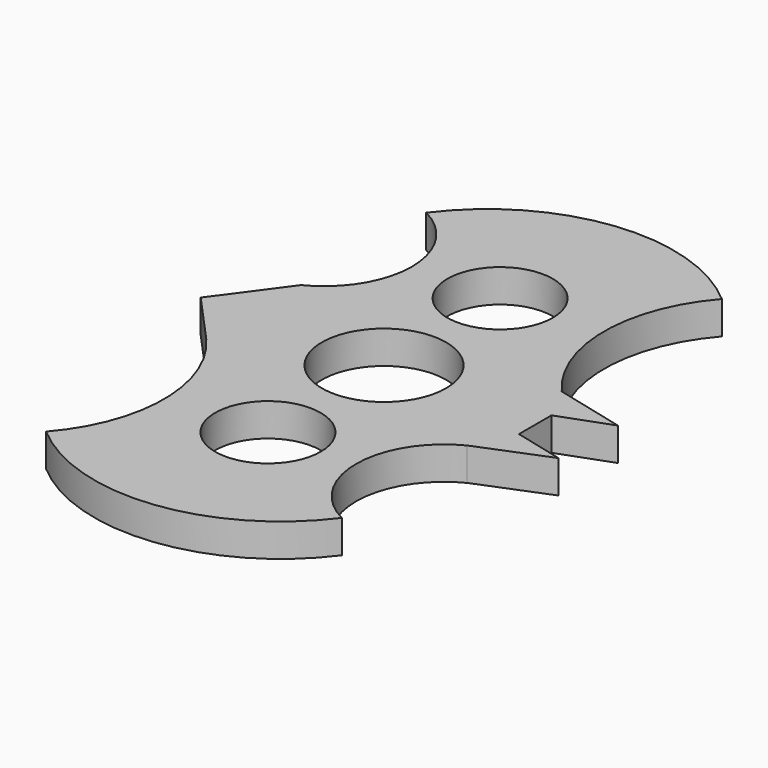
from build123d import *

# Parameters (mm, degrees)
F0_R     = 11.2
F0_R_2   = 13.2
F1_DEPTH = 7


with BuildPart() as f1:
    # F0 (on Top) → F1 (new body)
    with BuildSketch(Plane.XY):
        with BuildLine():
            ThreePointArc((28.884582, 11.065237), (20.885319, 32.324288), (28.884582, 53.583339))
            ThreePointArc((28.884582, 53.583339), (-1.340183, 62.944188), (-28.762719, 47.15918))
            ThreePointArc((-28.762719, 47.15918), (-18.50582, 30.514764), (-28.762719, 13.870347))
            Line((-28.762719, 13.870347), (-38.919577, 0))
            Line((-38.919577, 0), (-28.884582, -11.065237))
            ThreePointArc((-28.884582, -11.065237), (-20.885319, -32.324288), (-28.884582, -53.583339))
            ThreePointArc((-28.884582, -53.583339), (1.340183, -62.944188), (28.762719, -47.15918))
            ThreePointArc((28.762719, -47.15918), (18.50582, -30.514764), (28.762719, -13.870347))
            Line((28.762719, -13.870347), (43.418381, -7.944582))
            Line((43.418381, -7.944582), (32.908306, -5.317063))
            Line((32.908306, -5.317063), (32.908306, 3.305201))
            Line((32.908306, 3.305201), (43.829836, 7.328924))
            Line((43.829836, 7.328924), (28.884582, 11.065237))
        make_face()
        with Locations((0, -30.806771)):
            Circle(F0_R, mode=Mode.SUBTRACT)
        Circle(F0_R_2, mode=Mode.SUBTRACT)
        with Locations((0, 30.806771)):
            Circle(F0_R, mode=Mode.SUBTRACT)
    extrude(amount=F1_DEPTH)


solid = f1.part
